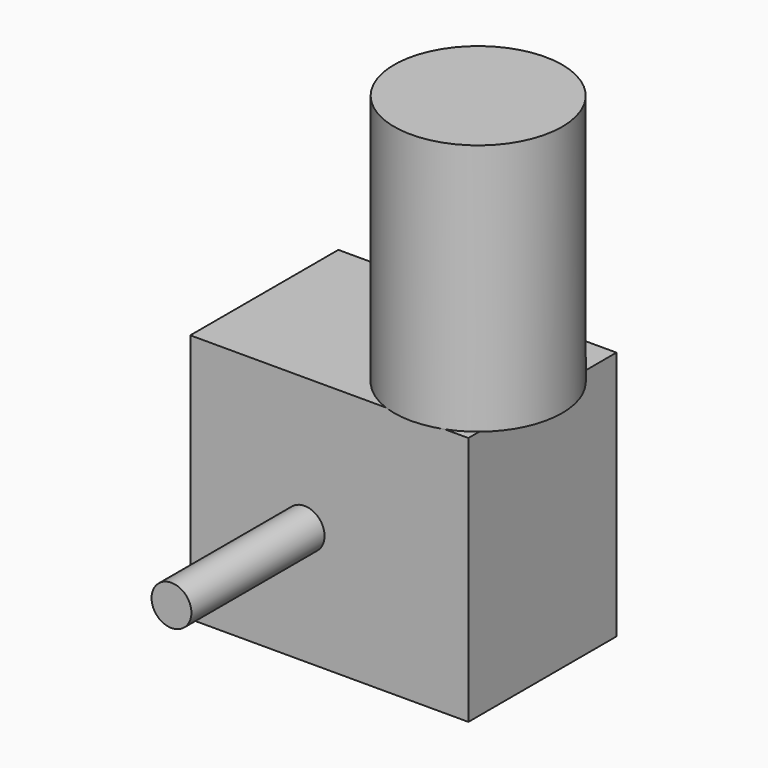
from build123d import *

# Parameters (mm, degrees)
F0_W     = 132.842
F0_H     = 119.38
F1_DEPTH = 88.392
F2_R     = 40.132
F3_DEPTH = 120.396
F4_R     = 9.525
F5_DEPTH = 79.502


with BuildPart() as f1:
    # F0 (on Front) → F1 (new body)
    with BuildSketch(Plane.XZ):
        with Locations((-0.909254, 5.516134)):
            Rectangle(F0_W, F0_H)
    extrude(amount=-F1_DEPTH)

    # F2 (on face) → F3 (join)
    with BuildSketch(Plane.XY.offset(65.206134)):
        with Locations((40.111746, 37.592)):
            Circle(F2_R)
    extrude(amount=F3_DEPTH)

    # F4 (on face) → F5 (join)
    with BuildSketch(Plane.XZ):
        with Locations((-12.720254, 1.706134)):
            Circle(F4_R)
    extrude(amount=F5_DEPTH)


solid = f1.part
